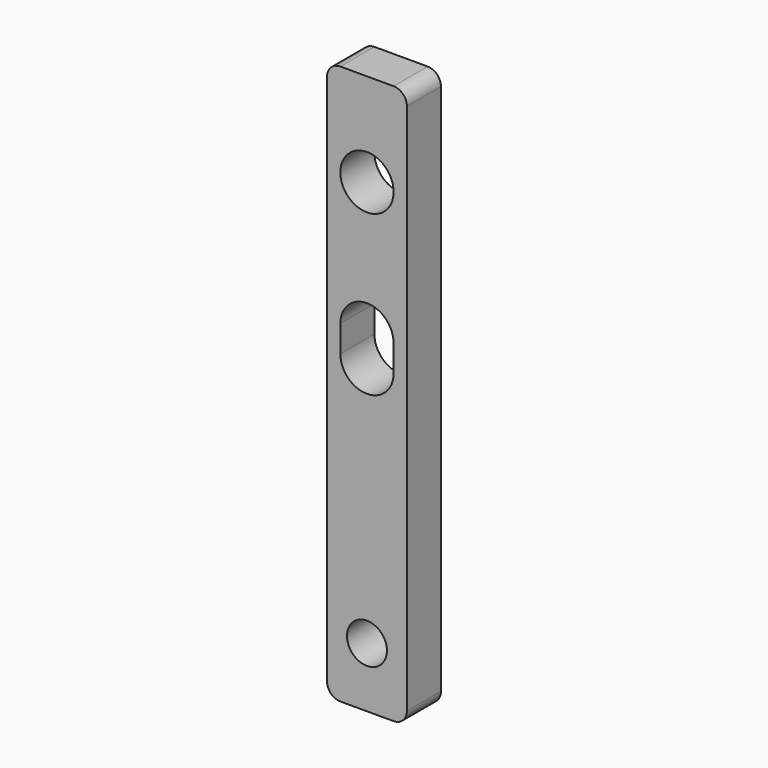
from build123d import *

# Parameters (mm, degrees)
F0_R     = 1.5
F0_R_2   = 2
F1_DEPTH = 3.2


with BuildPart() as f1:
    # F0 (on Front) → F1 (new body)
    with BuildSketch(Plane.XZ):
        with BuildLine():
            Line((3, -34), (3, 6))
            ThreePointArc((3, 6), (2.707107, 6.707107), (2, 7))
            Line((2, 7), (-2, 7))
            ThreePointArc((-2, 7), (-2.707107, 6.707107), (-3, 6))
            Line((-3, 6), (-3, -34))
            ThreePointArc((-3, -34), (-2.707107, -34.707107), (-2, -35))
            Line((-2, -35), (2, -35))
            ThreePointArc((2, -35), (2.707107, -34.707107), (3, -34))
        make_face()
        with Locations((0, -30.5)):
            Circle(F0_R, mode=Mode.SUBTRACT)
        with BuildLine():
            ThreePointArc((-2, -10), (0, -8), (2, -10))
            Line((2, -10), (2, -12))
            ThreePointArc((2, -12), (0, -14), (-2, -12))
            Line((-2, -12), (-2, -10))
        make_face(mode=Mode.SUBTRACT)
        Circle(F0_R_2, mode=Mode.SUBTRACT)
    extrude(amount=F1_DEPTH)


solid = f1.part
